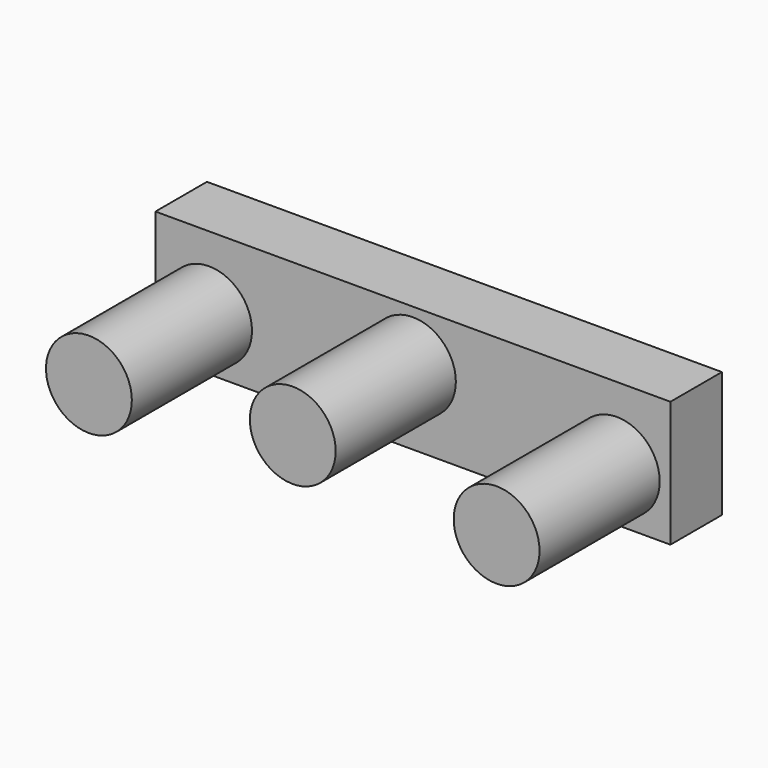
from build123d import *

# Parameters (mm, degrees)
F0_R     = 2
F1_DEPTH = 10
F0_W     = 24
F0_H     = 5.864708
F2_DEPTH = 3


with BuildPart() as f1:
    # F0 (on Front) → F1 (new body)
    with BuildSketch(Plane.XZ):
        with Locations((-9.5, 0)):
            Circle(F0_R)
        with Locations((0, 1)):
            Circle(F0_R)
        with Locations((9.5, 0)):
            Circle(F0_R)
    extrude(amount=F1_DEPTH)


with BuildPart() as f2:
    # F0 (on Front) → F2 (new body)
    with BuildSketch(Plane.XZ):
        with Locations((0, 0.5)):
            Rectangle(F0_W, F0_H)
        with Locations((-9.5, 0)):
            Circle(F0_R, mode=Mode.SUBTRACT)
        with Locations((9.5, 0)):
            Circle(F0_R, mode=Mode.SUBTRACT)
        with Locations((0, 1)):
            Circle(F0_R, mode=Mode.SUBTRACT)
    extrude(amount=F2_DEPTH)


solid = Compound([f1.part, f2.part])
